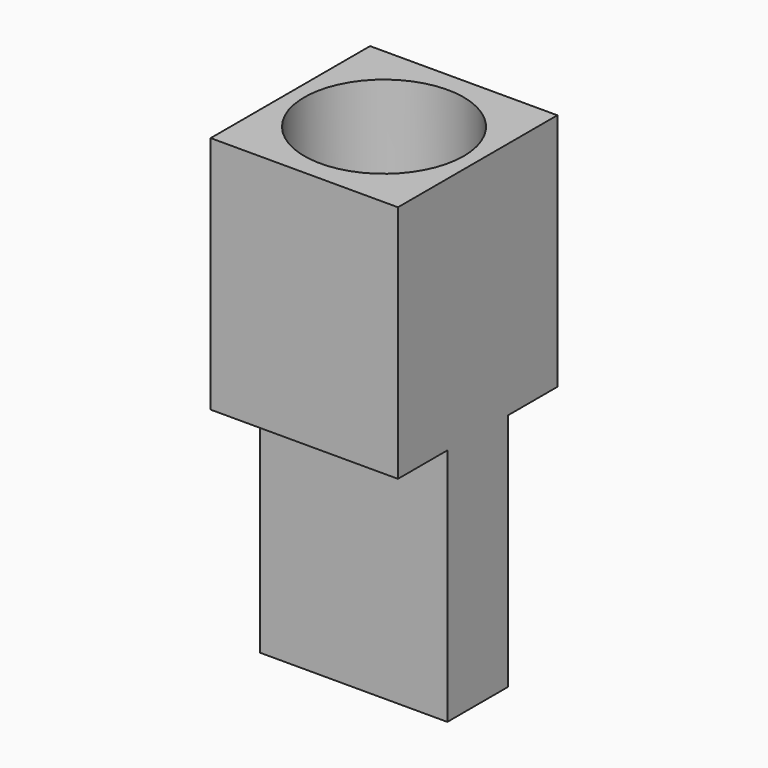
from build123d import *

# Parameters (mm, degrees)
F0_W     = 4.7
F0_H     = 5
F1_DEPTH = 6
F2_R     = 2
F3_DEPTH = 5
F4_W     = 4.7
F4_H     = 1.9
F5_DEPTH = 6


with BuildPart() as f1:
    # F0 (on Top) → F1 (new body)
    with BuildSketch(Plane.XY):
        with Locations((-58.38673, 37.343877)):
            Rectangle(F0_W, F0_H)
    extrude(amount=F1_DEPTH)

    # F2 (on face) → F3 (cut)
    with BuildSketch(Plane.XY.offset(6)):
        with Locations((-58.38673, 37.343877)):
            Circle(F2_R)
    extrude(amount=-F3_DEPTH, mode=Mode.SUBTRACT)

    # F4 (on face) → F5 (join)
    with BuildSketch(Plane(origin=(0, 0, 0), x_dir=(1, 0, 0), z_dir=(0, 0, -1))):
        with Locations((-58.38673, -37.343877)):
            Rectangle(F4_W, F4_H)
    extrude(amount=F5_DEPTH)


solid = f1.part
